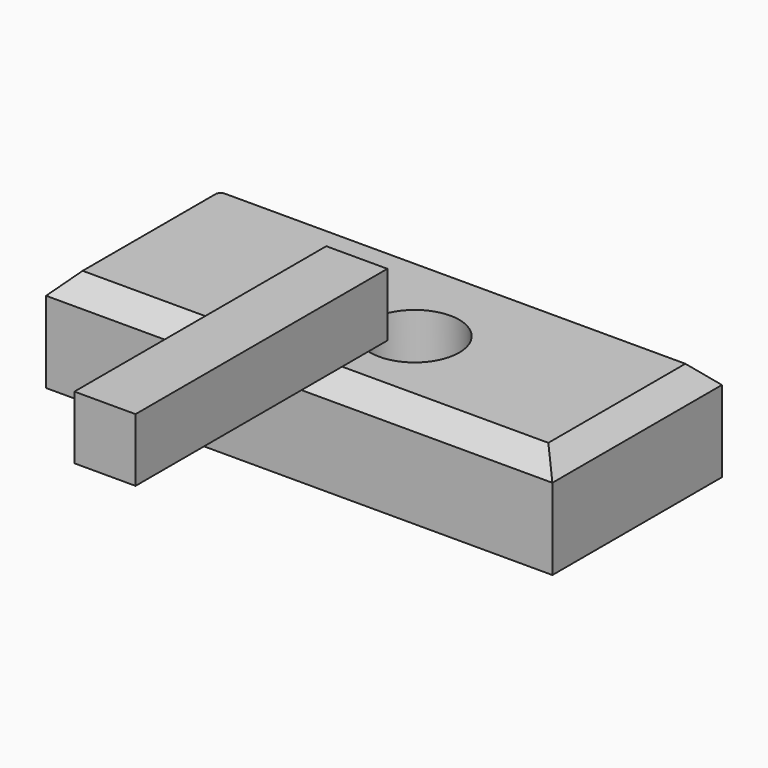
from build123d import *

# Parameters (mm, degrees)
F1_DEPTH      = 25.4
F2_SIZE       = 5.08
F3_R          = 11.12869
F4_DEPTH      = 72.136
F4_DEPTH_BACK = 25.4
F5_W          = 15.288536
F5_H          = 15.798151
F6_DEPTH      = 78.74


with BuildPart() as f1:
    # F0 (on Top) → F1 (new body)
    with BuildSketch(Plane.XY):
        with BuildLine():
            Line((-126.640037, 0), (0, 0))
            Line((0, 0), (0, 53.000256))
            Line((0, 53.000256), (-120.290037, 53.000256))
            ThreePointArc((-120.290037, 53.000256), (-124.780165, 51.140384), (-126.640037, 46.650256))
            Line((-126.640037, 46.650256), (-126.640037, 0))
        make_face()
    extrude(amount=F1_DEPTH)

    # F2
    f2_edges = [f1.edges().sort_by_distance(p)[0] for p in [
        (-126.640037, 23.325128, 25.4),
        (-63.320018, 0, 25.4),
        (0, 26.500128, 25.4),
    ]]
    chamfer(f2_edges, length=F2_SIZE)

    # F3 (on face) → F4 (cut, two sides)
    with BuildSketch(Plane.XY.offset(25.4)) as f4_sk:
        with Locations((-53.632267, 24.004094)):
            Circle(F3_R)
    extrude(amount=-F4_DEPTH, mode=Mode.SUBTRACT)
    extrude(f4_sk.sketch, amount=-F4_DEPTH_BACK, mode=Mode.SUBTRACT)


with BuildPart() as f6:
    # F5 (on face) → F6 (new body)
    with BuildSketch(Plane.XZ):
        with Locations((-48.917247, 46.120413)):
            Rectangle(F5_W, F5_H)
    extrude(amount=F6_DEPTH)


solid = Compound([f1.part, f6.part])
